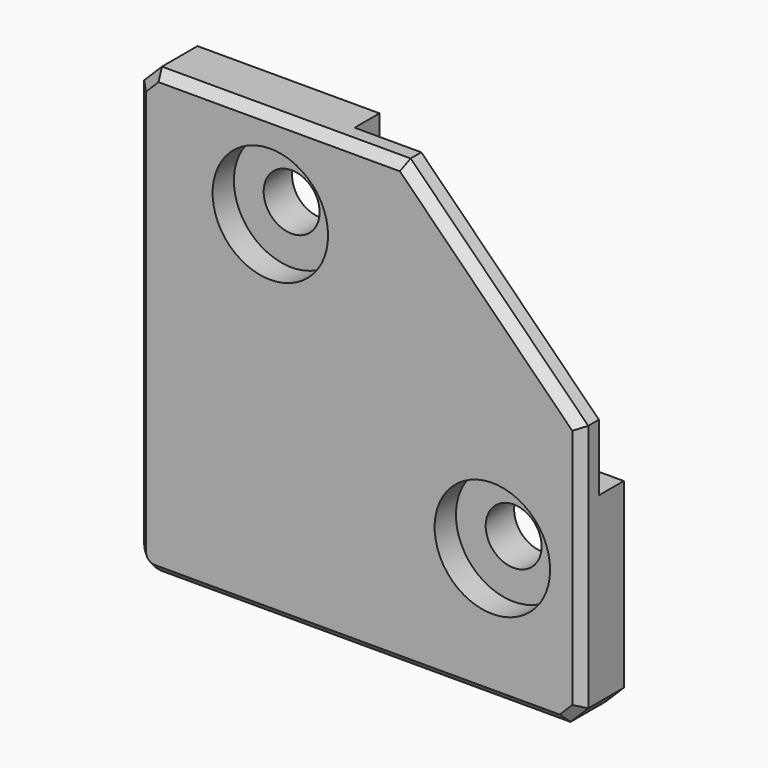
from build123d import *

# Parameters (mm, degrees)
CYLINDER009_R     = 3.15
CYLINDER009_DEPTH = 10
CYLINDER008_R     = 3.15
CYLINDER008_DEPTH = 10
CYLINDER006_R     = 6.5
CYLINDER006_DEPTH = 10
CYLINDER007_R     = 6.5
CYLINDER007_DEPTH = 10
BOX010_W          = 28
BOX010_H          = 16
BOX010_DEPTH      = 28
BOX008_W          = 50
BOX008_H          = 6
BOX008_DEPTH      = 50
FILLET_R          = 2
CHAMFER014_SIZE   = 20
CHAMFER015_SIZE   = 2
CHAMFER016_SIZE   = 1
BOX007_W          = 7.8
BOX007_H          = 2
BOX007_DEPTH      = 20
CHAMFER010_SIZE   = 1
BOX009_W          = 20
BOX009_H          = 2
BOX009_DEPTH      = 7.8
CHAMFER013_SIZE   = 1


with BuildPart() as cylinder009:
    # Cylinder009 → Cylinder009 (new body)
    with BuildSketch(Plane(origin=(10, -7, -15), x_dir=(1, 0, 0), z_dir=(0, 1, 0))):
        Circle(CYLINDER009_R)
    extrude(amount=CYLINDER009_DEPTH)


with BuildPart() as fusion005:
    # Cylinder008 → Cylinder008 (new body)
    with BuildSketch(Plane(origin=(-15, -7, 10), x_dir=(1, 0, 0), z_dir=(0, 1, 0))):
        Circle(CYLINDER008_R)
    extrude(amount=CYLINDER008_DEPTH)

    # Fusion005: union Cylinder009
    add(cylinder009.part)


with BuildPart() as cylinder006:
    # Cylinder006 → Cylinder006 (new body)
    with BuildSketch(Plane(origin=(10, -16, -15), x_dir=(1, 0, 0), z_dir=(0, 1, 0))):
        Circle(CYLINDER006_R)
    extrude(amount=CYLINDER006_DEPTH)


with BuildPart() as fusion006:
    # Cylinder007 → Cylinder007 (new body)
    with BuildSketch(Plane(origin=(-15, -16, 10), x_dir=(1, 0, 0), z_dir=(0, 1, 0))):
        Circle(CYLINDER007_R)
    extrude(amount=CYLINDER007_DEPTH)

    # Fusion006: union Cylinder006
    add(cylinder006.part)


with BuildPart() as fusion006_1:
    # Fusion006 placement: moved
    add(fusion006.part.moved(Location((0, 3, 0))))


with BuildPart() as cube010:
    # Box010 → Box010 (new body)
    with BuildSketch(Plane(origin=(-7.5, -3.5, -7.5), x_dir=(1, 0, 0), z_dir=(0, 0, 1))):
        with Locations((14, 8)):
            Rectangle(BOX010_W, BOX010_H)
    extrude(amount=BOX010_DEPTH)


with BuildPart() as chamfer016:
    # Box008 → Box008 (new body)
    with BuildSketch(Plane(origin=(-30, -6, -30), x_dir=(1, 0, 0), z_dir=(0, 0, 1))):
        with Locations((25, 3)):
            Rectangle(BOX008_W, BOX008_H)
    extrude(amount=BOX008_DEPTH)

    # Fillet
    fillet_edges = [chamfer016.edges().sort_by_distance(p)[0] for p in [
        (-30, -3, -30),
    ]]
    fillet(fillet_edges, radius=FILLET_R)

    # Chamfer014
    chamfer014_edges = [chamfer016.edges().sort_by_distance(p)[0] for p in [
        (20, -3, 20),
    ]]
    chamfer(chamfer014_edges, length=CHAMFER014_SIZE)

    # Chamfer015
    chamfer015_edges = [chamfer016.edges().sort_by_distance(p)[0] for p in [
        (20, -3, -30),
        (-30, -3, 20),
    ]]
    chamfer(chamfer015_edges, length=CHAMFER015_SIZE)

    # Cut002008002: cut Cube010
    add(cube010.part, mode=Mode.SUBTRACT)

    # Chamfer016
    chamfer016_edges = [chamfer016.edges().sort_by_distance(p)[0] for p in [
        (20, -6, -14),
        (19, -6, -29),
        (10, -6, 10),
        (-5, -6, -30),
        (-14, -6, 20),
        (-29.414214, -6, -29.414214),
        (-29, -6, 19),
        (-30, -6, -5),
    ]]
    chamfer(chamfer016_edges, length=CHAMFER016_SIZE)


with BuildPart() as chamfer010:
    # Box007 → Box007 (new body)
    with BuildSketch(Plane(origin=(-18.9, -1, 0), x_dir=(1, 0, 0), z_dir=(0, 0, 1))):
        with Locations((3.9, 1)):
            Rectangle(BOX007_W, BOX007_H)
    extrude(amount=BOX007_DEPTH)

    # Chamfer010
    chamfer010_edges = [chamfer010.edges().sort_by_distance(p)[0] for p in [
        (-15, 1, 0),
        (-15, 1, 20),
    ]]
    chamfer(chamfer010_edges, length=CHAMFER010_SIZE)


with BuildPart() as top_corner_clip:
    # Box009 → Box009 (new body)
    with BuildSketch(Plane(origin=(0, -1, -18.9), x_dir=(1, 0, 0), z_dir=(0, 0, 1))):
        with Locations((10, 1)):
            Rectangle(BOX009_W, BOX009_H)
    extrude(amount=BOX009_DEPTH)

    # Chamfer013
    chamfer013_edges = [top_corner_clip.edges().sort_by_distance(p)[0] for p in [
        (0, 1, -15),
        (20, 1, -15),
    ]]
    chamfer(chamfer013_edges, length=CHAMFER013_SIZE)

    # Fusion007: union Chamfer010
    add(chamfer010.part)

    # Fusion008: union Chamfer016
    add(chamfer016.part)

    # Cut002008003: cut Fusion006
    add(fusion006_1.part, mode=Mode.SUBTRACT)

    # Cut002008004: cut Fusion005
    add(fusion005.part, mode=Mode.SUBTRACT)


solid = top_corner_clip.part
